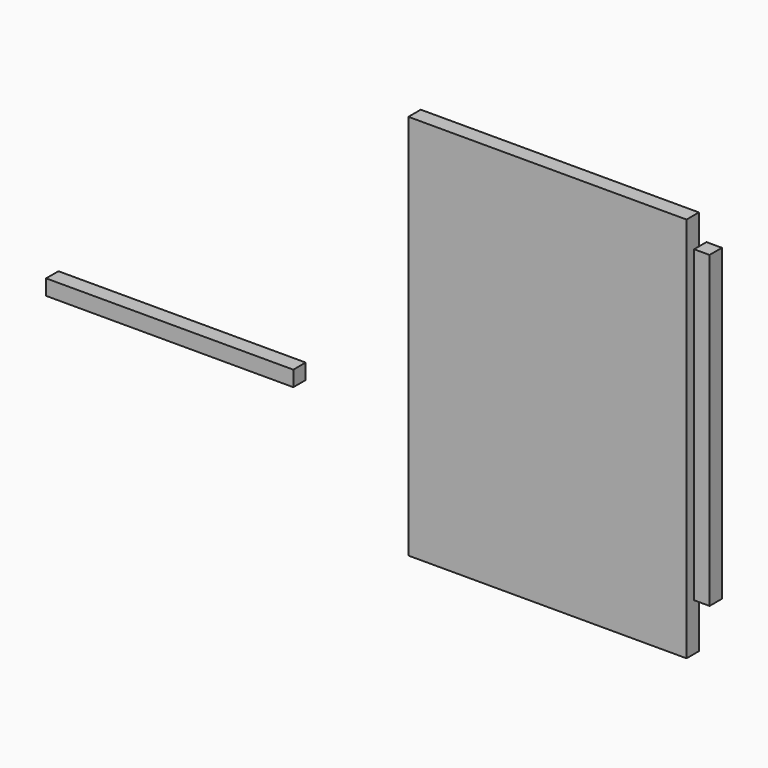
from build123d import *

# Parameters (mm, degrees)
F0_W     = 457.2
F0_H     = 635
F1_DEPTH = 25.4
F2_W     = 25.4
F2_H     = 508
F3_DEPTH = 25.4
F5_W     = 406.4
F5_H     = 25.4
F6_DEPTH = 25.4


with BuildPart() as f1:
    # F0 (on Front) → F1 (new body)
    with BuildSketch(Plane.XZ):
        with Locations((192.432878, -1.561169)):
            Rectangle(F0_W, F0_H)
    extrude(amount=F1_DEPTH)


with BuildPart() as f3:
    # F2 (on face) → F3 (new body)
    with BuildSketch(Plane.XZ.offset(25.4)):
        with Locations((466.500201, 39.965361)):
            Rectangle(F2_W, F2_H)
    extrude(amount=F3_DEPTH)


with BuildPart() as f6:
    # F5 (on face) → F6 (new body)
    with BuildSketch(Plane.XZ.offset(25.4)):
        with Locations((-408.236938, -107.28032)):
            Rectangle(F5_W, F5_H)
    extrude(amount=F6_DEPTH)


solid = Compound([f1.part, f3.part, f6.part])
